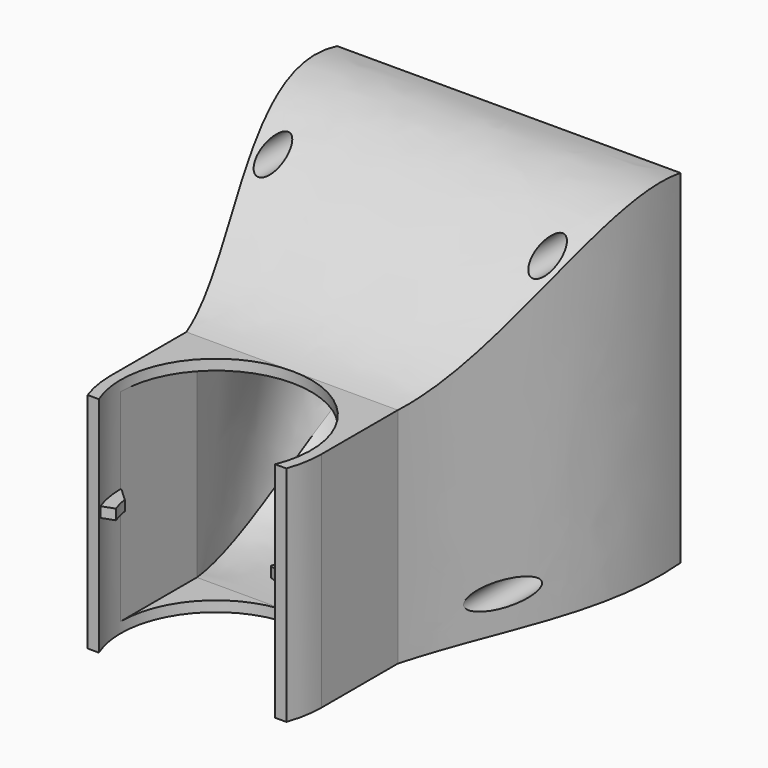
from build123d import *

# Parameters (mm, degrees)
SKETCH_W        = 40
SKETCH_H        = 40
SKETCH001_W     = 40
SKETCH001_H     = 40
SKETCH002_W     = 28.2
SKETCH002_H     = 28
SKETCH015_W     = 24.64
SKETCH015_H     = 26
SKETCH003_W     = 24.64
SKETCH003_H     = 26
PAD001_DEPTH    = 11.10001
PAD_DEPTH       = 26
SKETCH013_W     = 24.64
SKETCH013_H     = 24.64
SKETCH009_W     = 22.2
SKETCH009_H     = 23.56
SKETCH017_W     = 22.2
SKETCH017_H     = 23.56
POCKET001_DEPTH = 11.10001
SKETCH010_R     = 11.1
POCKET_DEPTH    = 40
PAD002_DEPTH    = 1.2
SKETCH011_R     = 1.45
POCKET002_DEPTH = 46.864698
CHAMFER_SIZE    = 1.4


with BuildPart() as part:
    # Sketch → AdditiveLoft section 0
    with BuildSketch(Plane.XZ):
        Rectangle(SKETCH_W, SKETCH_H)
    # Sketch001 → AdditiveLoft section 1
    with BuildSketch(Plane.XZ.offset(6)):
        Rectangle(SKETCH001_W, SKETCH001_H)
    # Sketch002 → AdditiveLoft section 2
    with BuildSketch(Plane.XZ.offset(26)):
        with Locations((0, -6)):
            Rectangle(SKETCH002_W, SKETCH002_H)
    # Sketch015 → AdditiveLoft section 3
    with BuildSketch(Plane.XZ.offset(31.55)):
        with Locations((0, -7)):
            Rectangle(SKETCH015_W, SKETCH015_H)
    loft()

    # Sketch003 → Pad001 (new body)
    with BuildSketch(Plane.XZ.offset(31.55)):
        with Locations((0, -7)):
            Rectangle(SKETCH003_W, SKETCH003_H)
    extrude(amount=PAD001_DEPTH)

    # Sketch004 → Pad (join)
    with BuildSketch(Plane.XY.offset(-20)):
        with BuildLine():
            ThreePointArc((11.577013, -46.863698), (0, -30.33001), (-11.577013, -46.863698))
            Line((-11.577013, -46.863698), (11.577013, -46.863698))
        make_face()
    extrude(amount=PAD_DEPTH)

    # Sketch006 → SubtractiveLoft section 0
    with BuildSketch(Plane.XZ):
        with BuildLine():
            ThreePointArc((15.809634, 11.070025), (0, 19.3), (-15.809634, 11.070025))
            ThreePointArc((-15.809634, 11.070025), (-19.3, 0), (-15.809634, -11.070025))
            ThreePointArc((-15.809634, -11.070025), (0, -19.3), (15.809634, -11.070025))
            ThreePointArc((15.809634, -11.070025), (19.3, 0), (15.809634, 11.070025))
        make_face()
    # Sketch005 → SubtractiveLoft section 1
    with BuildSketch(Plane.XZ.offset(6)):
        with BuildLine():
            ThreePointArc((14.699251, 10.690132), (0, 17.939), (-14.699251, 10.690132))
            ThreePointArc((-14.699251, 10.690132), (-18.528, -0.589), (-14.699251, -11.868132))
            ThreePointArc((-14.699251, -11.868132), (0, -19.117), (14.699251, -11.868132))
            ThreePointArc((14.699251, -11.868132), (18.528, -0.589), (14.699251, 10.690132))
        make_face()
    # Sketch013 → SubtractiveLoft section 2
    with BuildSketch(Plane.XZ.offset(26)):
        with Locations((0, -6.46)):
            Rectangle(SKETCH013_W, SKETCH013_H)
    # Sketch009 → SubtractiveLoft section 3
    with BuildSketch(Plane.XZ.offset(31.55)):
        with Locations((0, -7)):
            Rectangle(SKETCH009_W, SKETCH009_H)
    loft(mode=Mode.SUBTRACT)

    # Sketch017 → Pocket001 (cut)
    with BuildSketch(Plane.XZ.offset(31.55)):
        with Locations((0, -7)):
            Rectangle(SKETCH017_W, SKETCH017_H)
    extrude(amount=POCKET001_DEPTH, mode=Mode.SUBTRACT)

    # Sketch010 → Pocket (cut)
    with BuildSketch(Plane.XY.offset(-20)):
        with Locations((0, -42.65001)):
            Circle(SKETCH010_R)
    extrude(amount=POCKET_DEPTH, mode=Mode.SUBTRACT)

    # Sketch012 → Pad002 (join)
    with BuildSketch(Plane.XY.offset(-6.4)):
        with BuildLine():
            ThreePointArc((-11.2, -42.65001), (-11.029847, -44.59487), (-10.524557, -46.480636))
            Line((-10.524557, -46.480636), (-9.021049, -45.933403))
            ThreePointArc((-9.6, -42.65001), (-9.454154, -44.317033), (-9.021049, -45.933403))
            Line((-11.2, -42.65001), (-9.6, -42.65001))
        make_face()
        with BuildLine():
            Line((9.021049, -45.933403), (10.524557, -46.480636))
            ThreePointArc((10.524557, -46.480636), (11.029847, -44.59487), (11.2, -42.65001))
            Line((9.6, -42.65001), (11.2, -42.65001))
            ThreePointArc((9.021049, -45.933403), (9.454154, -44.317033), (9.6, -42.65001))
        make_face()
    extrude(amount=PAD002_DEPTH)

    # Sketch011 → Pocket002 (cut, through all)
    with BuildSketch(Plane.XZ):
        with Locations((-16, 16)):
            Circle(SKETCH011_R)
        with Locations((16, 16)):
            Circle(SKETCH011_R)
        with Locations((16, -16)):
            Circle(SKETCH011_R)
        with Locations((-16, -16)):
            Circle(SKETCH011_R)
    extrude(amount=POCKET002_DEPTH, mode=Mode.SUBTRACT)

    # Chamfer
    chamfer_edges = [part.edges().sort_by_distance(p)[0] for p in [
        (9.6, -42.65001, -5.8),
        (-9.6, -42.65001, -5.8),
    ]]
    chamfer(chamfer_edges, length=CHAMFER_SIZE)


solid = part.part
